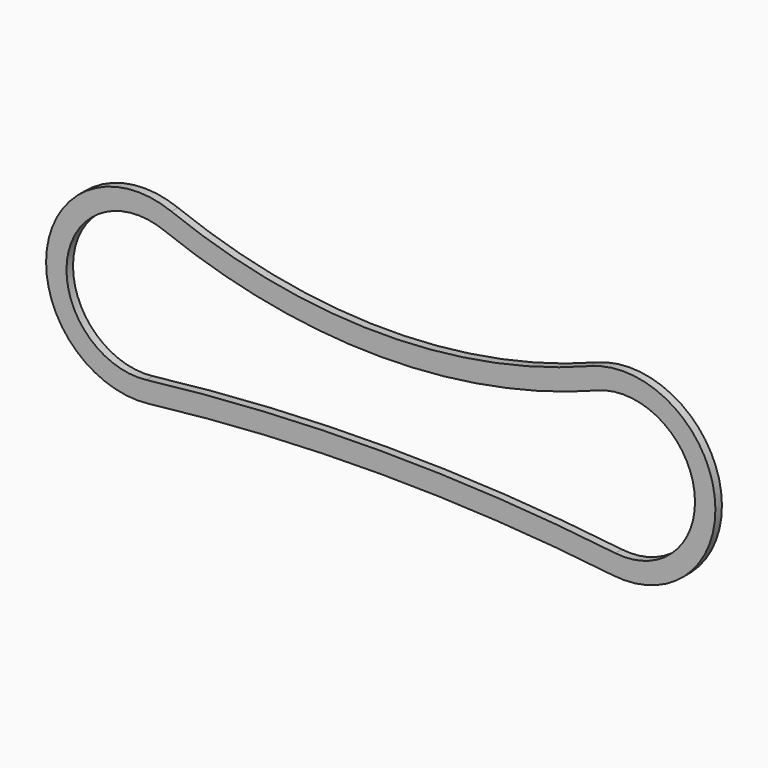
from build123d import *

# Parameters (mm, degrees)
F1_DEPTH = 20


with BuildPart() as f1:
    # F0 (on Front) → F1 (new body)
    with BuildSketch(Plane.XZ):
        with BuildLine():
            ThreePointArc((513.079182, 209.556626), (0, 112.833061), (-513.079182, 209.556626))
            ThreePointArc((-513.079182, 209.556626), (-818.17155, 28.626198), (-568.62069, -223.448276))
            ThreePointArc((-568.62069, -223.448276), (0, -190), (568.62069, -223.448276))
            ThreePointArc((568.62069, -223.448276), (818.17155, 28.626198), (513.079182, 209.556626))
        make_face()
        with BuildLine():
            ThreePointArc((-574.482759, -173.793103), (-768.577872, 22.264821), (-531.283809, 162.988487))
            ThreePointArc((-531.283809, 162.988487), (0, 62.833061), (531.283809, 162.988487))
            ThreePointArc((531.283809, 162.988487), (768.577872, 22.264821), (574.482759, -173.793103))
            ThreePointArc((574.482759, -173.793103), (0, -140), (-574.482759, -173.793103))
        make_face(mode=Mode.SUBTRACT)
    extrude(amount=F1_DEPTH)


solid = f1.part
